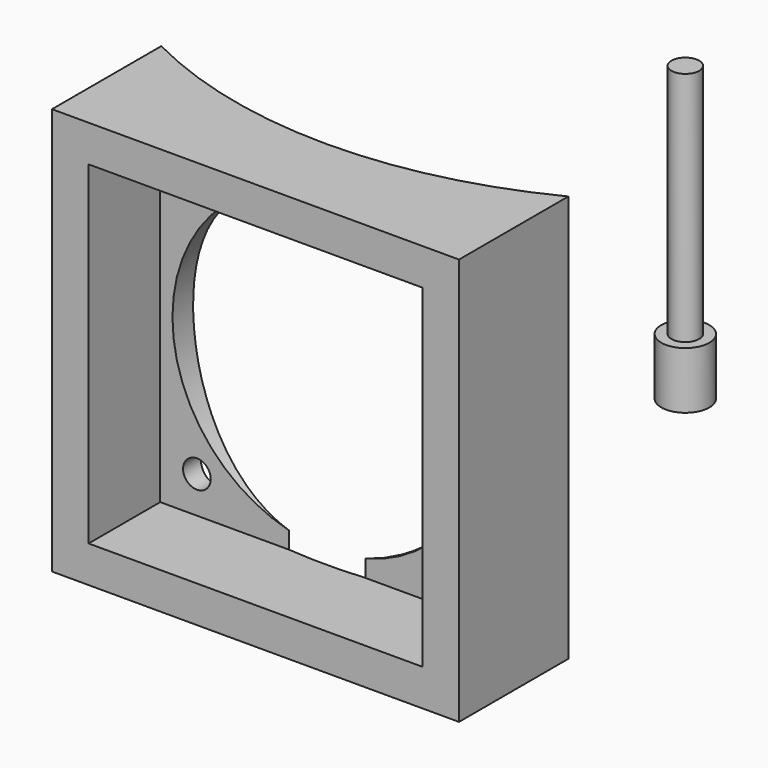
from build123d import *

# Parameters (mm, degrees)
CYLINDER_R              = 2.95
CYLINDER_DEPTH          = 7
CYLINDER001_R           = 1.7
CYLINDER001_DEPTH       = 30
CLONE003_ROLL_ANGLE     = -90
CLONE001_ROLL_ANGLE     = -90
CLONE002_ROLL_ANGLE     = -90
CLONE_ROLL_ANGLE        = -90
BOX272_W                = 41
BOX272_H                = 11
BOX272_DEPTH            = 41
CYLINDER1064_R          = 19
CYLINDER1064_DEPTH      = 20
CYLINDER1064_ROLL_ANGLE = 90
CYLINDER1063_R          = 55.2
CYLINDER1063_DEPTH      = 50
BOX_W                   = 50
BOX_H                   = 25
BOX_DEPTH               = 50


with BuildPart() as m3bolthead:
    # Cylinder → Cylinder (new body)
    with BuildSketch(Plane.XY):
        Circle(CYLINDER_R)
    extrude(amount=CYLINDER_DEPTH)


with BuildPart() as m3bolt:
    # Cylinder001 → Cylinder001 (new body)
    with BuildSketch(Plane.XY.offset(6)):
        Circle(CYLINDER001_R)
    extrude(amount=CYLINDER001_DEPTH)

    # Fusion: union M3BoltHead
    add(m3bolthead.part)


with BuildPart() as clone_of_m3bolt003:
    # Clone003 base: copy of M3Bolt
    add(m3bolt.part)


with BuildPart() as clone_of_m3bolt003_1:
    # Clone003 roll: moved
    add(clone_of_m3bolt003.part.rotate(Axis((0, 0, 0), (1, 0, 0)), CLONE003_ROLL_ANGLE))


with BuildPart() as clone_of_m3bolt003_2:
    # Clone003 placement: moved
    add(clone_of_m3bolt003_1.part.moved(Location((-15.994718, -81.76, 40.994755))))


with BuildPart() as clone_of_m3bolt001:
    # Clone001 base: copy of M3Bolt
    add(m3bolt.part)


with BuildPart() as clone_of_m3bolt001_1:
    # Clone001 roll: moved
    add(clone_of_m3bolt001.part.rotate(Axis((0, 0, 0), (1, 0, 0)), CLONE001_ROLL_ANGLE))


with BuildPart() as clone_of_m3bolt001_2:
    # Clone001 placement: moved
    add(clone_of_m3bolt001_1.part.moved(Location((-15.994718, -81.76, 9.005245))))


with BuildPart() as clone_of_m3bolt002:
    # Clone002 base: copy of M3Bolt
    add(m3bolt.part)


with BuildPart() as clone_of_m3bolt002_1:
    # Clone002 roll: moved
    add(clone_of_m3bolt002.part.rotate(Axis((0, 0, 0), (1, 0, 0)), CLONE002_ROLL_ANGLE))


with BuildPart() as clone_of_m3bolt002_2:
    # Clone002 placement: moved
    add(clone_of_m3bolt002_1.part.moved(Location((15.994793, -81.76, 40.994755))))


with BuildPart() as fusion001:
    # Clone base: copy of M3Bolt
    add(m3bolt.part)


with BuildPart() as fusion001_1:
    # Clone roll: moved
    add(fusion001.part.rotate(Axis((0, 0, 0), (1, 0, 0)), CLONE_ROLL_ANGLE))


with BuildPart() as fusion001_2:
    # Clone placement: moved
    add(fusion001_1.part.moved(Location((15.994793, -81.76, 9.005245))))

    # Fusion001: union Clone of M3Bolt003, Clone of M3Bolt001, Clone of M3Bolt002
    add(clone_of_m3bolt003_2.part)
    add(clone_of_m3bolt001_2.part)
    add(clone_of_m3bolt002_2.part)


with BuildPart() as cube034:
    # Box272 → Box272 (new body)
    with BuildSketch(Plane(origin=(-20.5, -66, 4.5), x_dir=(1, 0, 0), z_dir=(0, 0, 1))):
        with Locations((20.5, 5.5)):
            Rectangle(BOX272_W, BOX272_H)
    extrude(amount=BOX272_DEPTH)


with BuildPart() as cylinder022:
    # Cylinder1064 → Cylinder1064 (new body)
    with BuildSketch(Plane.XY):
        Circle(CYLINDER1064_R)
    extrude(amount=CYLINDER1064_DEPTH)


with BuildPart() as cylinder022_1:
    # Cylinder1064 roll: moved
    add(cylinder022.part.rotate(Axis((0, 0, 0), (1, 0, 0)), CYLINDER1064_ROLL_ANGLE))


with BuildPart() as cylinder022_2:
    # Cylinder1064 placement: moved
    add(cylinder022_1.part.moved(Location((3.5e-05, -47, 25))))


with BuildPart() as cylinder:
    # Cylinder1063 → Cylinder1063 (new body)
    with BuildSketch(Plane.XY):
        Circle(CYLINDER1063_R)
    extrude(amount=CYLINDER1063_DEPTH)


with BuildPart() as obj1:
    # Box → Box (new body)
    with BuildSketch(Plane(origin=(-25, -66, 0), x_dir=(1, 0, 0), z_dir=(0, 0, 1))):
        with Locations((25, 12.5)):
            Rectangle(BOX_W, BOX_H)
    extrude(amount=BOX_DEPTH)

    # Cut: cut Cylinder
    add(cylinder.part, mode=Mode.SUBTRACT)

    # Cut149: cut Cylinder022
    add(cylinder022_2.part, mode=Mode.SUBTRACT)

    # Cut150: cut Cube034
    add(cube034.part, mode=Mode.SUBTRACT)

    # Cut151: cut Fusion001
    add(fusion001_2.part, mode=Mode.SUBTRACT)


solid = Compound([m3bolt.part, obj1.part])
